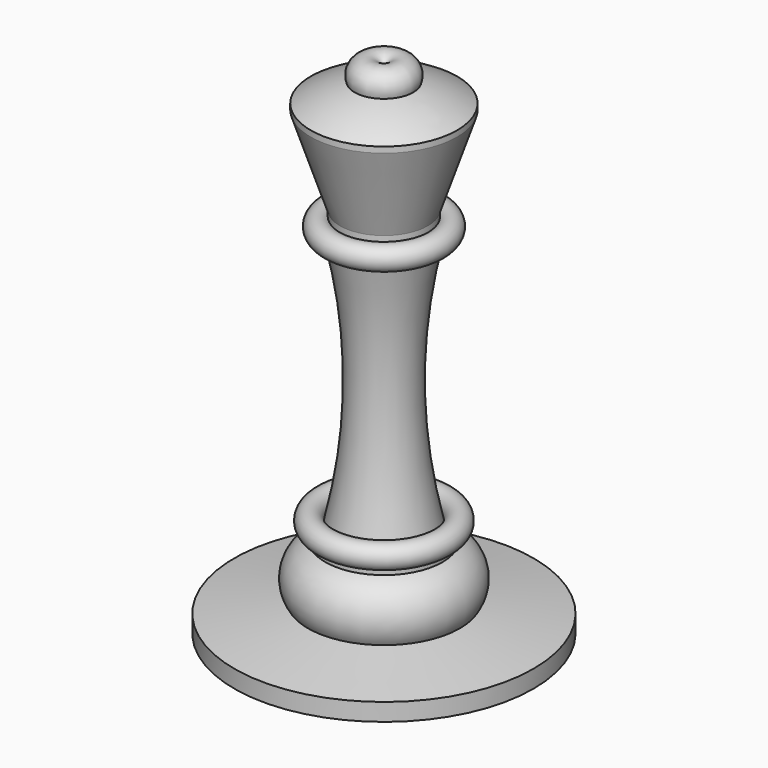
from build123d import *


with BuildPart() as f1:
    # F0 (on Front) → F1 (revolve)
    with BuildSketch(Plane.XZ):
        with BuildLine():
            ThreePointArc((12.5, -5.27), (8.884681, -3.326098), (5, -2))
            ThreePointArc((5, -2), (3.5, 1.5), (0, 0))
            Line((0, 0), (0, -84.99))
            Line((0, -84.99), (25.564878, -84.99))
            Line((25.564878, -84.99), (25.564878, -81.99))
            Line((25.564878, -81.99), (13, -79.99))
            ThreePointArc((13, -79.99), (13.688326, -74.773119), (10, -71.02))
            Line((10, -71.02), (10, -70.02))
            ThreePointArc((10, -70.02), (11.414214, -66.605786), (8, -68.02))
            ThreePointArc((8, -68.02), (5.463843, -46.805), (8, -25.59))
            ThreePointArc((8, -25.59), (10.802727, -23.470252), (7.5, -22.27))
            Line((7.5, -22.27), (7.5, -21.27))
            Line((7.5, -21.27), (12.5, -6.27))
            Line((12.5, -6.27), (12.5, -5.27))
        make_face()
    revolve(axis=Axis((0, 0, -42.495), (0, 0, 1)))


solid = f1.part
